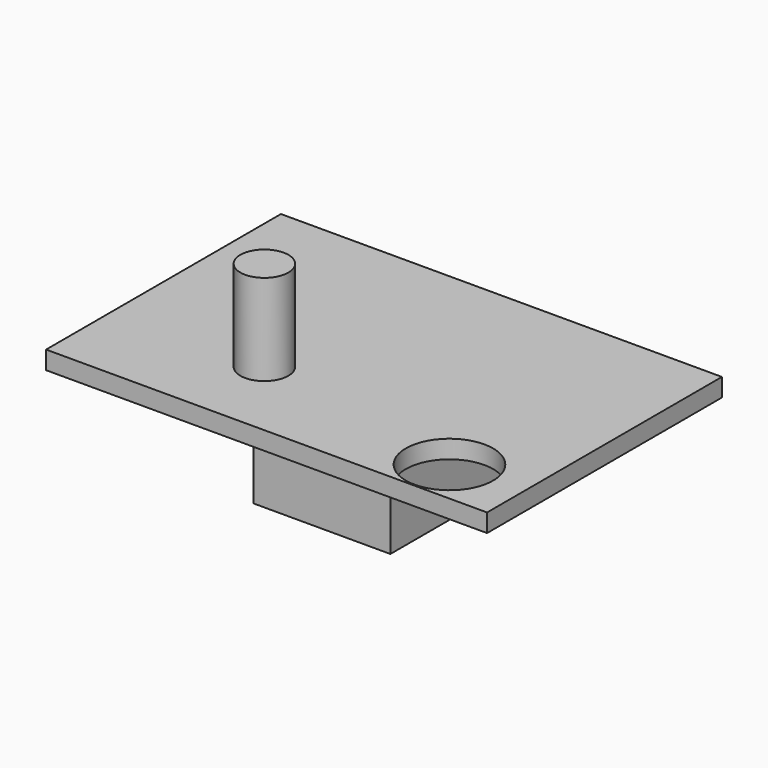
from build123d import *

# Parameters (mm, degrees)
F0_W     = 37.619051
F0_H     = 46.446688
F1_DEPTH = 25
F2_W     = 121.315539
F2_H     = 80.761321
F3_DEPTH = 5
F4_R     = 6.609922
F5_DEPTH = 25
F7_D     = 24


with BuildPart() as f1:
    # F0 (on Top) → F1 (new body)
    with BuildSketch(Plane.XY):
        with Locations((-18.809525, -23.223344)):
            Rectangle(F0_W, F0_H)
    extrude(amount=F1_DEPTH)

    # F2 (on face) → F3 (join)
    with BuildSketch(Plane.XY.offset(25)):
        with Locations((-20.51305, -22.998762)):
            Rectangle(F2_W, F2_H)
    extrude(amount=F3_DEPTH)

    # F4 (on face) → F5 (join)
    with BuildSketch(Plane.XY.offset(30)):
        with Locations((-39.504733, -40.390346)):
            Circle(F4_R)
    extrude(amount=F5_DEPTH)

    # F7 (through all)
    with Locations(Plane.XY.offset(30)):
        with Locations((19.895032, -50.992895)):
            Hole(F7_D / 2)


solid = f1.part
